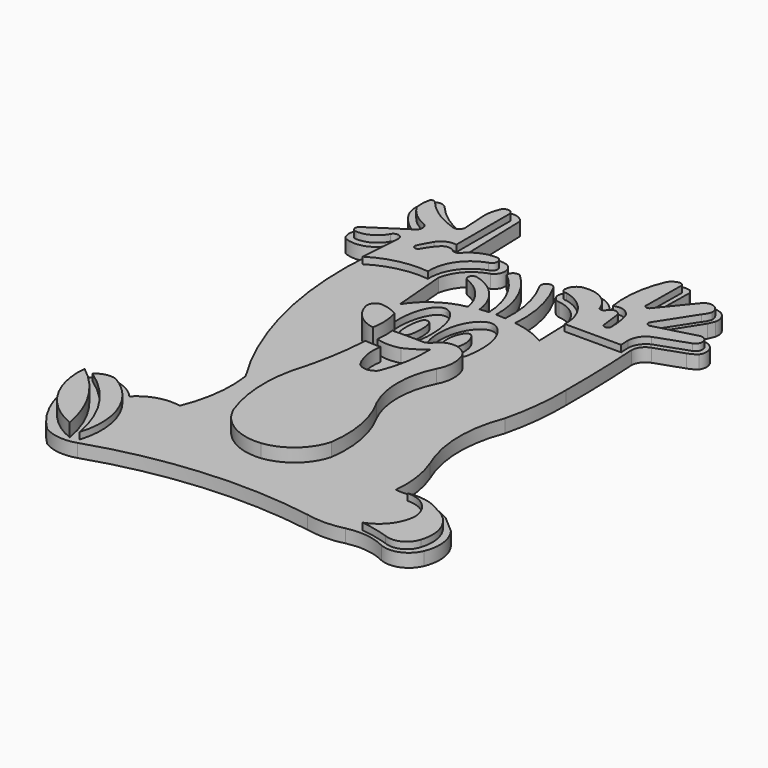
from build123d import *

# Parameters (mm, degrees)
PAD_DEPTH    = 0.5
POCKET_DEPTH = 0.5
PAD001_DEPTH = 0.5
PAD002_DEPTH = 0.5
PAD003_DEPTH = 0.6


with BuildPart() as part:
    # Sketch → Pad (new body, symmetric)
    with BuildSketch(Plane.XY):
        with BuildLine():
            ThreePointArc((5.962916, 19.995993), (5.422523, 18.816079), (5.176744, 17.541791))
            ThreePointArc((5.176744, 17.541791), (5.098536, 16.41149), (5.197411, 15.28281))
            ThreePointArc((5.197411, 15.28281), (3.947311, 16.218451), (2.391498, 16.085713))
            ThreePointArc((2.391498, 16.085713), (1.853107, 15.610029), (1.600858, 14.93734))
            ThreePointArc((1.600858, 14.93734), (1.783112, 14.521942), (2.188615, 14.31862))
            ThreePointArc((4.268952, 12.219893), (3.609387, 13.646525), (2.188615, 14.31862))
            Line((4.268952, 12.219893), (4.346176, 9.785435))
            ThreePointArc((4.346176, 9.785435), (3.136535, 10.326721), (1.847444, 10.634074))
            ThreePointArc((1.847444, 10.634074), (1.682837, 13.152434), (0.801989, 15.517459))
            ThreePointArc((0.801989, 15.517459), (0.223227, 15.700992), (0.077939, 15.111466))
            ThreePointArc((1.01464, 10.72059), (0.87063, 12.985219), (0.077939, 15.111466))
            Line((0.301854, 10.769199), (1.01464, 10.72059))
            ThreePointArc((0.301854, 10.769199), (-0.194958, 13.380588), (-1.737307, 15.545614))
            ThreePointArc((-1.737307, 15.545614), (-2.191196, 15.51586), (-2.370061, 15.09764))
            ThreePointArc((-0.221315, 10.749416), (-0.82117, 13.158019), (-2.370061, 15.09764))
            Line((-0.873741, 10.687694), (-0.221315, 10.749416))
            ThreePointArc((-0.873741, 10.687694), (-1.739914, 12.666651), (-3.580652, 13.79723))
            ThreePointArc((-3.580652, 13.79723), (-3.958483, 13.562349), (-3.776068, 13.156579))
            ThreePointArc((-1.603503, 10.512244), (-2.345136, 12.117573), (-3.776068, 13.156579))
            ThreePointArc((-1.603503, 10.512244), (-3.506219, 9.740409), (-4.938437, 8.269078))
            Line((-5.276095, 12.316034), (-4.938437, 8.269078))
            ThreePointArc((-3.204182, 14.615568), (-4.56209, 13.755884), (-5.276095, 12.316034))
            ThreePointArc((-3.204182, 14.615568), (-2.714218, 15.382614), (-3.224369, 16.136384))
            ThreePointArc((-3.224369, 16.136384), (-4.154562, 16.19751), (-5.01017, 15.827467))
            Line((-5.844231, 15.333978), (-5.01017, 15.827467))
            Line((-6.015906, 20.906525), (-5.844231, 15.333978))
            ThreePointArc((-6.015906, 20.906525), (-6.822805, 21.352062), (-7.653237, 20.9521))
            ThreePointArc((-7.653237, 20.9521), (-7.931842, 20.293239), (-7.987243, 19.580042))
            Line((-7.9004, 17.635701), (-7.987243, 19.580042))
            ThreePointArc((-10.608731, 19.55762), (-9.37305, 18.429694), (-7.9004, 17.635701))
            ThreePointArc((-10.608731, 19.55762), (-11.228652, 19.763009), (-11.699648, 19.310626))
            ThreePointArc((-11.699648, 19.310626), (-11.895761, 18.384873), (-11.644337, 17.472587))
            ThreePointArc((-11.644337, 17.472587), (-10.825649, 16.49996), (-9.746096, 15.828531))
            Line((-12.637925, 14.062879), (-9.746096, 15.828531))
            ThreePointArc((-12.637925, 14.062879), (-12.879787, 13.451678), (-12.683589, 12.824327))
            ThreePointArc((-12.683589, 12.824327), (-11.167627, 12.755113), (-10.021886, 13.750205))
            ThreePointArc((-10.021886, 13.750205), (-9.782837, 4.267821), (-6.284823, -4.549018))
            ThreePointArc((-6.967694, -9.881727), (-6.267082, -7.261366), (-6.284823, -4.549018))
            ThreePointArc((-6.967694, -9.881727), (-8.611119, -9.949361), (-10.017372, -10.802515))
            ThreePointArc((-10.017372, -10.802515), (-10.67256, -10.236744), (-11.46211, -9.881809))
            ThreePointArc((-11.46211, -9.881809), (-12.625941, -9.881937), (-13.511482, -10.637132))
            ThreePointArc((-13.511482, -10.637132), (-13.098163, -14.110614), (-11.2029, -17.050662))
            ThreePointArc((-11.2029, -17.050662), (-9.975026, -17.453785), (-8.690021, -17.316153))
            ThreePointArc((7.546328, -16.008681), (-0.650939, -15.68023), (-8.690021, -17.316153))
            ThreePointArc((7.546328, -16.008681), (8.96157, -16.156085), (10.372728, -15.97369))
            ThreePointArc((13.361087, -16.340299), (11.89898, -15.895563), (10.372728, -15.97369))
            ThreePointArc((13.361087, -16.340299), (14.766588, -16.350117), (15.767001, -15.362847))
            ThreePointArc((15.767001, -15.362847), (15.99291, -13.832024), (15.429635, -12.390784))
            Line((14.175702, -11.301298), (15.429635, -12.390784))
            ThreePointArc((14.175702, -11.301298), (12.19448, -10.497891), (10.062149, -10.343397))
            Line((9.614318, -10.307313), (10.062149, -10.343397))
            ThreePointArc((9.614318, -10.307313), (9.582868, -8.339734), (9.086511, -6.435532))
            ThreePointArc((8.940786, 0.790359), (8.291202, -2.837156), (9.086511, -6.435532))
            ThreePointArc((8.940786, 0.790359), (9.385517, 3.302043), (9.506948, 5.849904))
            ThreePointArc((9.506948, 5.849904), (9.473326, 9.022795), (9.328031, 12.192537))
            ThreePointArc((10.053347, 13.181607), (9.533514, 12.802333), (9.328031, 12.192537))
            Line((10.053347, 13.181607), (12.113933, 13.897561))
            ThreePointArc((12.113933, 13.897561), (12.458558, 14.046336), (12.770222, 14.255538))
            ThreePointArc((12.770222, 14.255538), (12.761711, 15.284018), (11.815618, 15.687445))
            Line((9.031814, 14.982876), (11.815618, 15.687445))
            Line((10.709508, 17.627373), (9.031814, 14.982876))
            ThreePointArc((10.709508, 17.627373), (10.818577, 17.871576), (10.913359, 18.121672))
            ThreePointArc((10.913359, 18.121672), (10.744743, 18.933001), (10.011346, 19.318763))
            ThreePointArc((10.011346, 19.318763), (9.548657, 19.1972), (9.165855, 18.910284))
            Line((7.409915, 16.779028), (9.165855, 18.910284))
            Line((7.45648, 19.903989), (7.409915, 16.779028))
            ThreePointArc((7.45648, 19.903989), (7.405227, 20.116416), (7.262757, 20.282111))
            ThreePointArc((7.262757, 20.282111), (6.575277, 20.309685), (5.962916, 19.995993))
        make_face()
    extrude(amount=PAD_DEPTH, both=True)

    # Sketch001 → Pocket (cut)
    with BuildSketch(Plane.XY.offset(0.5)):
        with BuildLine():
            add(Edge.make_bspline(
                [(2.187585, 8.16782), (2.424191, 7.354673), (2.28642, 5.52172), (2.09773, 5.2342), (1.192098, 5.395348), (0.744874, 4.500926), (0.192903, 4.4525), (-0.930229, 5.458827), (-0.894289, 8.549685), (0.866782, 10.400607), (1.950979, 8.980968), (2.187585, 8.16782)],
                knots=[0, 0, 0, 0, 0.111111, 0.222222, 0.333333, 0.444444, 0.555556, 0.666667, 0.777778, 0.888889, 1, 1, 1, 1], degree=3))
        make_face()
        with BuildLine():
            add(Edge.make_bspline(
                [(1.173869, 6.633934), (1.140924, 6.01097), (0.410139, 4.759052), (-0.227773, 6.654987), (0.60781, 8.496836), (1.206814, 7.256898), (1.173869, 6.633934)],
                knots=[0, 0, 0, 0, 0.25, 0.5, 0.75, 1, 1, 1, 1], degree=3))
        make_face(mode=Mode.SUBTRACT)
        with BuildLine():
            add(Edge.make_bspline(
                [(-1.279024, 7.960815), (-1.115047, 7.325122), (-1.067875, 6.578614), (-1.099323, 5.190423), (-1.503651, 4.938842), (-2.316798, 5.099077), (-3.363558, 5.397079), (-3.77687, 5.693586), (-3.839768, 6.915553), (-3.706491, 8.255822), (-3.147916, 9.3415), (-2.407398, 9.76157), (-1.723784, 9.121385), (-1.443002, 8.596507), (-1.279024, 7.960815)],
                knots=[0, 0, 0, 0, 0, 0.166667, 0.166667, 0.333333, 0.333333, 0.5, 0.5, 0.666667, 0.666667, 0.833333, 0.833333, 1, 1, 1, 1, 1], degree=4))
        make_face()
        with BuildLine():
            add(Edge.make_bspline(
                [(-2.0768, 7.423075), (-1.965071, 7.151339), (-1.901218, 6.547639), (-2.040969, 5.225437), (-2.443275, 5.258746), (-2.848033, 5.177254), (-2.876921, 6.511501), (-2.697462, 7.82129), (-2.348135, 7.634582), (-2.18853, 7.69481), (-2.0768, 7.423075)],
                knots=[0, 0, 0, 0, 0, 0.25, 0.25, 0.5, 0.5, 0.75, 0.75, 1, 1, 1, 1, 1], degree=4))
        make_face(mode=Mode.SUBTRACT)
    extrude(amount=-POCKET_DEPTH, mode=Mode.SUBTRACT)

    # Sketch002 → Pad001 (join)
    with BuildSketch(Plane.XY.offset(0.5)):
        with BuildLine():
            ThreePointArc((4.7831, 11.600732), (4.179395, 13.606021), (2.41862, 14.739738))
            ThreePointArc((2.038685, 14.939705), (2.198152, 14.781771), (2.41862, 14.739738))
            ThreePointArc((2.978525, 15.919539), (2.281115, 15.647827), (2.038685, 14.939705))
            ThreePointArc((5.138159, 14.439789), (4.322713, 15.565503), (2.978525, 15.919539))
            ThreePointArc((5.138159, 14.439789), (5.358122, 14.339807), (5.578085, 14.439789))
            ThreePointArc((6.477932, 14.399797), (6.043739, 14.77373), (5.578085, 14.439789))
            Line((6.477932, 14.399797), (6.658165, 12.937021))
            ThreePointArc((6.658165, 12.937021), (6.930773, 12.778255), (7.15808, 12.99701))
            ThreePointArc((7.15808, 12.99701), (7.102288, 13.858212), (6.898125, 14.696721))
            ThreePointArc((6.898125, 14.696721), (6.321133, 15.197287), (5.558352, 15.156645))
            ThreePointArc((6.118256, 19.495913), (5.52801, 17.366317), (5.558352, 15.156645))
            ThreePointArc((6.780851, 19.918658), (6.402404, 19.781185), (6.118256, 19.495913))
            ThreePointArc((7.095329, 19.720985), (6.974988, 19.878522), (6.780851, 19.918658))
            Line((7.095329, 19.720985), (7.058973, 16.520019))
            ThreePointArc((7.058973, 16.520019), (7.163861, 16.244406), (7.454316, 16.295393))
            Line((7.454316, 16.295393), (9.35915, 18.640494))
            ThreePointArc((10.608073, 18.173271), (10.160804, 18.880534), (9.35915, 18.640494))
            ThreePointArc((10.302582, 17.580256), (10.492277, 17.857729), (10.608073, 18.173271))
            Line((10.302582, 17.580256), (8.595419, 14.938648))
            ThreePointArc((8.595419, 14.938648), (8.599129, 14.629314), (8.900911, 14.561274))
            Line((8.900911, 14.561274), (11.785116, 15.325006))
            ThreePointArc((12.191636, 14.359145), (12.501564, 15.05807), (11.785116, 15.325006))
            Line((12.191636, 14.359145), (9.80161, 13.51455))
            ThreePointArc((9.80161, 13.51455), (9.219008, 13.012452), (9.001938, 12.274612))
            Line((9.001938, 12.274612), (9.028894, 11.600732))
            Line((9.028894, 11.600732), (4.7831, 11.600732))
        make_face()
        with BuildLine():
            ThreePointArc((-5.662879, 11.813763), (-7.823024, 11.700071), (-9.82218, 10.87392))
            Line((-9.82218, 10.87392), (-9.602214, 13.993394))
            ThreePointArc((-9.602214, 13.993394), (-9.911058, 14.355938), (-10.342089, 14.153367))
            ThreePointArc((-12.141784, 13.133541), (-11.092453, 13.37966), (-10.342089, 14.153367))
            ThreePointArc((-12.281762, 13.733438), (-12.434019, 13.381632), (-12.141784, 13.133541))
            Line((-12.281762, 13.733438), (-9.622083, 15.473151))
            ThreePointArc((-9.622083, 15.473151), (-9.342322, 15.946308), (-9.662047, 16.393431))
            ThreePointArc((-11.260642, 17.752257), (-10.572487, 16.942091), (-9.662047, 16.393431))
            ThreePointArc((-11.225177, 18.949417), (-11.311468, 18.352868), (-11.260642, 17.752257))
            ThreePointArc((-10.830735, 18.929178), (-11.022229, 19.050907), (-11.225177, 18.949417))
            ThreePointArc((-10.830735, 18.929178), (-9.595562, 17.835119), (-8.102527, 17.132648))
            ThreePointArc((-8.102527, 17.132648), (-7.649249, 17.111436), (-7.407983, 17.495756))
            Line((-7.407983, 17.495756), (-7.522625, 19.512245))
            ThreePointArc((-7.262668, 20.612059), (-7.442597, 20.073959), (-7.522625, 19.512245))
            ThreePointArc((-6.4828, 20.572067), (-6.858874, 20.862354), (-7.262668, 20.612059))
            Line((-6.4828, 20.572067), (-6.4828, 15.512921))
            ThreePointArc((-6.4828, 15.512921), (-7.187594, 15.42096), (-7.722589, 14.953015))
            ThreePointArc((-7.722589, 14.953015), (-8.012733, 14.438591), (-8.282495, 13.913193))
            ThreePointArc((-8.282495, 13.913193), (-8.118749, 13.642837), (-7.822573, 13.753219))
            ThreePointArc((-7.082699, 14.773045), (-7.485219, 14.28677), (-7.822573, 13.753219))
            ThreePointArc((-6.142857, 14.753049), (-6.608682, 14.955569), (-7.082699, 14.773045))
            ThreePointArc((-6.142857, 14.753049), (-5.789112, 14.717261), (-5.522962, 14.953017))
            ThreePointArc((-3.643281, 15.732883), (-4.66088, 15.530369), (-5.522962, 14.953017))
            ThreePointArc((-3.563293, 14.893026), (-3.222974, 15.349175), (-3.643281, 15.732883))
            ThreePointArc((-3.563293, 14.893026), (-5.135304, 13.709467), (-5.662879, 11.813763))
        make_face()
        with BuildLine():
            ThreePointArc((-11.468569, -10.288023), (-12.242852, -10.267846), (-12.918572, -10.646426))
            ThreePointArc((-8.867439, -16.908854), (-10.248566, -13.360755), (-12.918572, -10.646426))
            ThreePointArc((-8.867439, -16.908854), (-8.989422, -13.135408), (-11.468569, -10.288023))
        make_face()
        with BuildLine():
            ThreePointArc((-9.487333, -17.068827), (-10.714195, -13.797374), (-13.059242, -11.207326))
            ThreePointArc((-13.059242, -11.207326), (-12.25349, -14.735397), (-9.487333, -17.068827))
        make_face()
        with BuildLine():
            ThreePointArc((13.222826, -13.050072), (12.56466, -11.543123), (11.023199, -10.970427))
            ThreePointArc((13.74274, -11.550329), (12.442751, -10.980023), (11.023199, -10.970427))
            ThreePointArc((15.322472, -15.089727), (15.219415, -13.013486), (13.74274, -11.550329))
            ThreePointArc((13.42279, -16.009569), (14.577371, -15.972483), (15.322472, -15.089727))
            ThreePointArc((13.42279, -16.009569), (12.364625, -15.717658), (11.283154, -15.529651))
            ThreePointArc((11.283154, -15.529651), (12.620601, -14.577428), (13.222826, -13.050072))
        make_face()
        with BuildLine():
            ThreePointArc((-2.421087, 2.589461), (-2.346476, 3.688239), (-2.54821, 4.770912))
            ThreePointArc((-2.54821, 4.770912), (-3.10656, 5.033378), (-3.708014, 5.170845))
            ThreePointArc((-3.708014, 5.170845), (-4.276072, 5.003401), (-4.427893, 4.43097))
            ThreePointArc((-4.427893, 4.43097), (-3.705242, 3.204263), (-2.421087, 2.589461))
        make_face()
        with BuildLine():
            ThreePointArc((-2.001999, 2.481311), (-1.946168, 3.176693), (-1.980398, 3.873473))
            ThreePointArc((0.411275, 3.871066), (-0.78454, 3.894124), (-1.980398, 3.873473))
            ThreePointArc((0.411275, 3.871066), (0.674591, 4.008072), (0.891208, 4.211007))
            ThreePointArc((3.19082, 3.931055), (2.117389, 4.698395), (0.891208, 4.211007))
            ThreePointArc((3.07084, 1.711429), (3.380662, 2.807737), (3.19082, 3.931055))
            ThreePointArc((3.07084, 1.711429), (2.410797, -1.07351), (3.030847, -3.867625))
            ThreePointArc((4.07025, -9.414147), (4.012225, -6.554369), (3.030847, -3.867625))
            ThreePointArc((0.930782, -12.113687), (2.913569, -11.244283), (4.07025, -9.414147))
            ThreePointArc((-3.008552, -9.754087), (-1.430121, -11.587052), (0.930782, -12.113687))
            ThreePointArc((-3.408483, -3.775096), (-3.644891, -6.79378), (-3.008552, -9.754087))
            ThreePointArc((-3.408483, -3.775096), (-2.742281, -0.981266), (-2.408229, 1.871403))
            ThreePointArc((-2.408229, 1.871403), (-1.819124, 1.828016), (-1.228434, 1.831409))
            ThreePointArc((-1.228434, 1.831409), (-1.237054, 0.551064), (-0.788508, -0.64817))
            ThreePointArc((-0.788508, -0.64817), (-0.099883, -0.925378), (0.571262, -0.608181))
            ThreePointArc((0.571262, -0.608181), (1.127942, 1.344454), (1.251148, 3.371149))
            ThreePointArc((-0.208606, 2.451304), (0.551335, 2.863517), (1.251148, 3.371149))
            ThreePointArc((-2.001999, 2.481311), (-1.1074, 2.340924), (-0.208606, 2.451304))
        make_face()
    extrude(amount=PAD001_DEPTH)

    # Sketch003 → Pad002 (join)
    with BuildSketch(Plane.XY.offset(1)):
        with BuildLine():
            ThreePointArc((-9.487333, -17.068827), (-10.714195, -13.797374), (-13.059242, -11.207326))
            ThreePointArc((-13.059242, -11.207326), (-12.25349, -14.735397), (-9.487333, -17.068827))
        make_face()
        with BuildLine():
            ThreePointArc((-2.421087, 2.589461), (-2.346476, 3.688239), (-2.54821, 4.770912))
            ThreePointArc((-2.54821, 4.770912), (-3.10656, 5.033378), (-3.708014, 5.170845))
            ThreePointArc((-3.708014, 5.170845), (-4.276072, 5.003401), (-4.427893, 4.43097))
            ThreePointArc((-4.427893, 4.43097), (-3.705242, 3.204263), (-2.421087, 2.589461))
        make_face()
        with BuildLine():
            ThreePointArc((-2.001999, 2.481311), (-1.946168, 3.176693), (-1.980398, 3.873473))
            ThreePointArc((0.411275, 3.871066), (-0.78454, 3.894124), (-1.980398, 3.873473))
            ThreePointArc((0.411275, 3.871066), (0.674591, 4.008072), (0.891208, 4.211007))
            ThreePointArc((3.19082, 3.931055), (2.117389, 4.698395), (0.891208, 4.211007))
            ThreePointArc((3.07084, 1.711429), (3.380662, 2.807737), (3.19082, 3.931055))
            ThreePointArc((3.07084, 1.711429), (2.410797, -1.07351), (3.030847, -3.867625))
            ThreePointArc((4.07025, -9.414147), (4.012225, -6.554369), (3.030847, -3.867625))
            ThreePointArc((0.930782, -12.113687), (2.913569, -11.244283), (4.07025, -9.414147))
            ThreePointArc((-3.008552, -9.754087), (-1.430121, -11.587052), (0.930782, -12.113687))
            ThreePointArc((-3.408483, -3.775096), (-3.644891, -6.79378), (-3.008552, -9.754087))
            ThreePointArc((-3.408483, -3.775096), (-2.742281, -0.981266), (-2.408229, 1.871403))
            ThreePointArc((-2.408229, 1.871403), (-1.819124, 1.828016), (-1.228434, 1.831409))
            ThreePointArc((-1.228434, 1.831409), (-1.237054, 0.551064), (-0.788508, -0.64817))
            ThreePointArc((-0.788508, -0.64817), (-0.099883, -0.925378), (0.571262, -0.608181))
            ThreePointArc((0.571262, -0.608181), (1.127942, 1.344454), (1.251148, 3.371149))
            ThreePointArc((-0.208606, 2.451304), (0.551335, 2.863517), (1.251148, 3.371149))
            ThreePointArc((-2.001999, 2.481311), (-1.1074, 2.340924), (-0.208606, 2.451304))
        make_face()
    extrude(amount=PAD002_DEPTH)

    # Sketch004 → Pad003 (join)
    with BuildSketch(Plane.XY.offset(1.5)):
        with BuildLine():
            ThreePointArc((-2.421087, 2.589461), (-2.346476, 3.688239), (-2.54821, 4.770912))
            ThreePointArc((-2.54821, 4.770912), (-3.10656, 5.033378), (-3.708014, 5.170845))
            ThreePointArc((-3.708014, 5.170845), (-4.276072, 5.003401), (-4.427893, 4.43097))
            ThreePointArc((-4.427893, 4.43097), (-3.705242, 3.204263), (-2.421087, 2.589461))
        make_face()
    extrude(amount=PAD003_DEPTH)


solid = part.part
